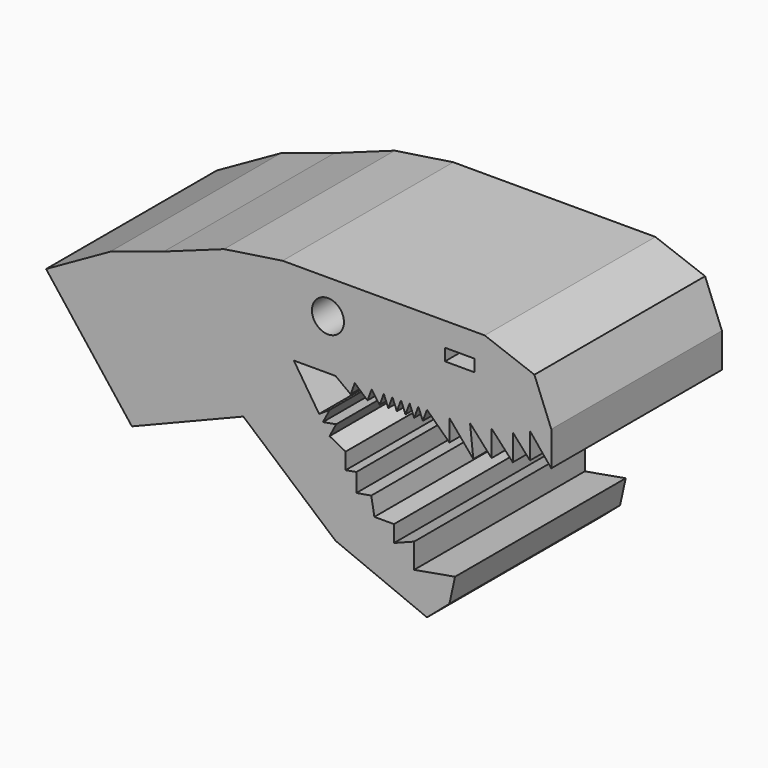
from build123d import *

# Parameters (mm, degrees)
F1_DEPTH = 50.8
F2_W     = 6.985
F2_H     = 2.8702
F3_DEPTH = 50.8
F4_R     = 3.81
F5_DEPTH = 50.8


with BuildPart() as f1:
    # F0 (on Front) → F1 (new body)
    with BuildSketch(Plane.XZ):
        Polygon((-33.22611, 46.59294), (-47.547709, 41.43716), (-60.341675, 37.236158), (-75.618044, 28.643196), (-55.185895, 2.291456), (-28.643198, 12.984917), (-6.683412, -5.919594), (15.085417, -14.894464), (20.432146, -10.311551), (12.030142, -5.919594), (7.230051, -1.85285), (2.563801, 2.100501), (-1.718592, 5.72864), (-4.279601, 9.668654), (-8.108484, 15.559242), (-9.691619, 17.994835), (-10.605306, 19.400507), (-16.613055, 28.643196), (-6.683412, 28.643196), (-2.100501, 28.643196), (1.909546, 28.643196), (4.804504, 28.643196), (6.855496, 28.643196), (8.906488, 28.643196), (10.957481, 28.643196), (13.034425, 28.643196), (15.085417, 28.643196), (20.432146, 28.643196), (25.340278, 29.170681), (30.457475, 29.720634), (34.531654, 30.158492), (35.521915, 30.55086), (39.607522, 32.169688), (44.683389, 34.180883), (40.673338, 44.301476), (28.834153, 48.693441), (-19.28642, 48.693441), align=None)
        Polygon((44.683389, 25.969833), (44.683389, 34.180883), (39.607522, 32.169688), align=None)
        Polygon((39.607522, 25.969833), (39.607522, 32.169688), (35.521915, 30.55086), align=None)
        Polygon((35.521915, 24.251241), (35.521915, 30.55086), (34.531654, 30.158492), (30.457475, 29.720634), align=None)
        Polygon((12.030142, -5.919594), (20.432146, -10.311551), (21.768831, -4.201002), align=None)
        Polygon((7.230051, -1.85285), (12.030142, -5.919594), (12.030142, 0), align=None)
        Polygon((30.457475, 23.487423), (30.457475, 29.720634), (25.340278, 29.170681), align=None)
        Polygon((2.563801, 2.100501), (7.230051, -1.85285), (7.230051, 2.100501), align=None)
        Polygon((26.12297, 21.887899), (25.340278, 29.170681), (20.432146, 28.643196), align=None)
        Polygon((-1.718592, 5.72864), (2.563801, 2.100501), (1.819311, 6.319278), align=None)
        Polygon((20.432146, 23.487423), (20.432146, 28.643196), (15.085417, 28.643196), align=None)
        Polygon((-4.279601, 9.668654), (-1.718592, 5.72864), (-1.718592, 10.120597), align=None)
        Polygon((14.093683, 25.969833), (15.085417, 28.643196), (13.034425, 28.643196), align=None)
        Polygon((-8.108484, 15.559242), (-4.279601, 9.668654), (-4.279601, 13.557781), align=None)
        Polygon((12.030142, 25.936006), (13.034425, 28.643196), (10.957481, 28.643196), align=None)
        Polygon((-9.691619, 17.994835), (-8.108484, 15.559242), (-6.545077, 18.550107), align=None)
        Polygon((9.965747, 25.969833), (10.957481, 28.643196), (8.906488, 28.643196), align=None)
        Polygon((-10.605306, 19.400507), (-9.691619, 17.994835), (-8.108484, 21.023442), align=None)
        Polygon((7.914755, 25.969833), (8.906488, 28.643196), (6.855496, 28.643196), align=None)
        Polygon((5.863763, 25.969833), (6.855496, 28.643196), (4.804504, 28.643196), align=None)
        Polygon((3.812771, 25.969833), (4.804504, 28.643196), (1.909546, 28.643196), align=None)
        Polygon((-2.100501, 28.643196), (-6.683412, 28.643196), (-3.092235, 25.969833), align=None)
        Polygon((0.917812, 25.969833), (1.909546, 28.643196), (-2.100501, 28.643196), align=None)
    extrude(amount=F1_DEPTH)

    # F2 (on face) → F3 (cut)
    with BuildSketch(Plane.XZ.offset(50.8)):
        with Locations((22.857464, 41.59747)):
            Rectangle(F2_W, F2_H)
    extrude(amount=-F3_DEPTH, mode=Mode.SUBTRACT)

    # F4 (on face) → F5 (cut)
    with BuildSketch(Plane.XZ.offset(50.8)):
        with Locations((-8.494654, 40.573284)):
            Circle(F4_R)
    extrude(amount=-F5_DEPTH, mode=Mode.SUBTRACT)


solid = f1.part
